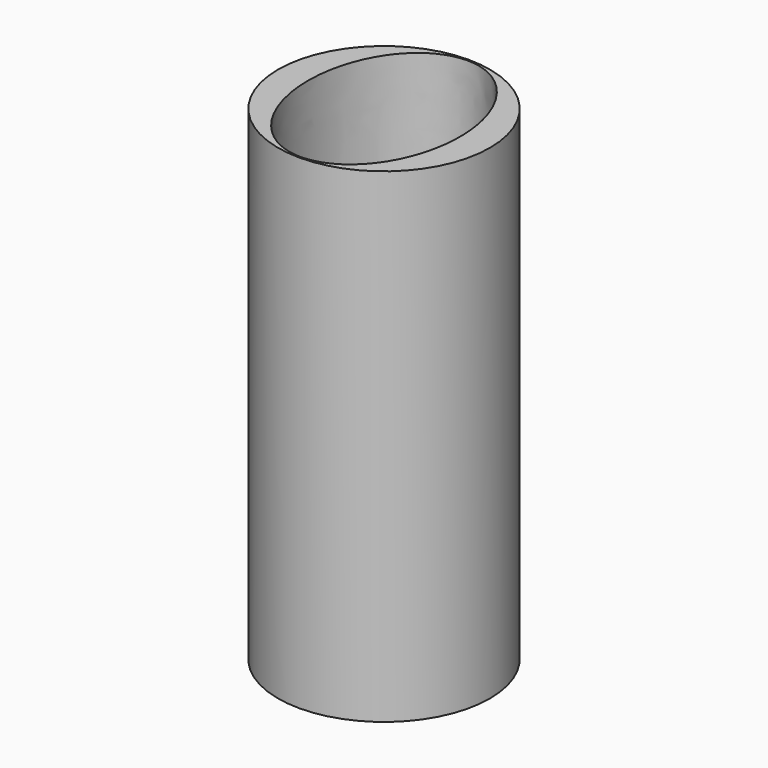
from build123d import *

# Parameters (mm, degrees)
F0_R     = 33.31841
F1_DEPTH = 152.4
F3_DEPTH = 127


with BuildPart() as f1:
    # F0 (on Top) → F1 (new body)
    with BuildSketch(Plane.XY):
        Circle(F0_R)
    extrude(amount=F1_DEPTH)

    # F2 (on face) → F3 (cut)
    with BuildSketch(Plane.XY.offset(152.4)):
        with BuildLine():
            add(Edge.make_bspline(
                [(0, -32.809857), (41.382386, -32.809857), (20.691193, 16.404929), (0, 65.619715), (-20.691193, 16.404929), (-41.382386, -32.809857), (0, -32.809857)],
                knots=[0, 0, 0, 2.094395, 2.094395, 4.18879, 4.18879, 6.283185, 6.283185, 6.283185], degree=2, weights=[1, 0.5, 1, 0.5, 1, 0.5, 1]))
        make_face()
    extrude(amount=-F3_DEPTH, mode=Mode.SUBTRACT)


solid = f1.part
